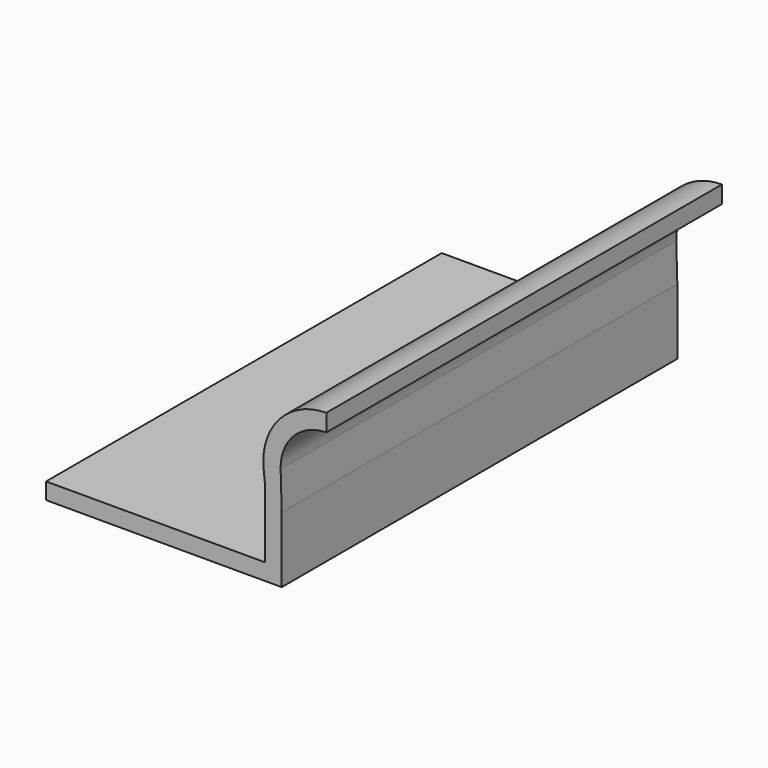
from build123d import *

# Parameters (mm, degrees)
F1_DEPTH = 30


with BuildPart() as f1:
    # F0 (on Front) → F1 (new body)
    with BuildSketch(Plane.XZ):
        with BuildLine():
            Line((-17, 0.5), (-17, -0.5))
            Line((-17, -0.5), (-3.705046, -0.5))
            Line((-3.705046, -0.5), (-2.705046, -0.5))
            Line((-2.705046, -0.5), (-2.705046, 3.494869))
            Line((-2.705046, 3.494869), (-2.770964, 5.791737))
            ThreePointArc((-2.770964, 5.791737), (-1.988092, 7.803116), (0, 8.643367))
            Line((0, 8.643367), (0, 9.693267))
            ThreePointArc((0, 9.693267), (-2.832423, 8.437408), (-3.803454, 5.495146))
            Line((-3.803454, 5.495146), (-3.705046, 4.5))
            Line((-3.705046, 4.5), (-3.705046, 0.5))
            Line((-3.705046, 0.5), (-17, 0.5))
        make_face()
    extrude(amount=F1_DEPTH)


solid = f1.part
